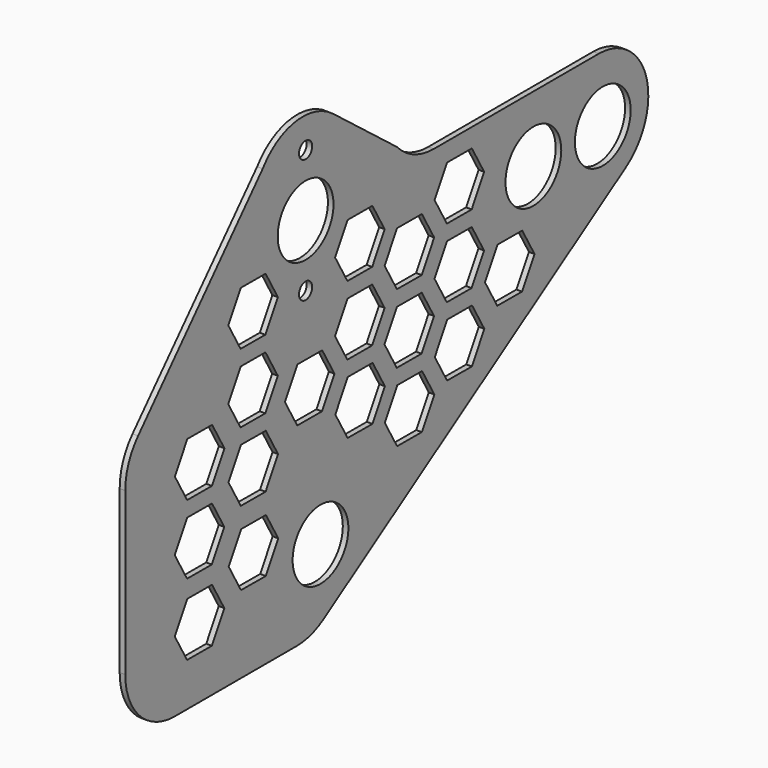
from build123d import *

# Parameters (mm, degrees)
F0_R     = 14.2875
F0_R_2   = 3.373438
F1_DEPTH = 2.286


with BuildPart() as f1:
    # F0 (on Right) → F1 (new body)
    with BuildSketch(Plane.YZ):
        with BuildLine():
            ThreePointArc((-41.678018, -70.096295), (-34.493562, -69.059045), (-27.895884, -66.032011))
            Line((-27.895884, -66.032011), (126.930524, 33.980489))
            ThreePointArc((126.930524, 33.980489), (137.51114, 62.500661), (113.14839, 80.716205))
            Line((113.14839, 80.716205), (28.638652, 80.716205))
            ThreePointArc((28.638652, 80.716205), (18.351058, 82.892825), (9.826628, 89.049637))
            Line((9.826628, 89.049637), (-22.94285, 114.364516))
            ThreePointArc((-22.94285, 114.364516), (-42.076779, 119.406552), (-59.022421, 109.190164))
            Line((-59.022421, 109.190164), (-122.859185, 38.763636))
            ThreePointArc((-122.859185, 38.763636), (-127.737616, 30.847053), (-129.439808, 21.705176))
            Line((-129.439808, 21.705176), (-129.439808, -44.696295))
            ThreePointArc((-129.439808, -44.696295), (-122.000321, -62.656807), (-104.039808, -70.096295))
            Line((-104.039808, -70.096295), (-41.678018, -70.096295))
        make_face()
        Polygon((-85.084374, -52.344054), (-97.784249, -52.287691), (-104.085375, -41.261095), (-97.686626, -30.290862), (-84.986751, -30.347225), (-78.685625, -41.373821), align=None, mode=Mode.SUBTRACT)
        Polygon((-57.446231, -38.402657), (-70.146106, -38.346295), (-76.447232, -27.319699), (-70.048483, -16.349466), (-57.348608, -16.405829), (-51.047482, -27.432424), align=None, mode=Mode.SUBTRACT)
        with Locations((-29.411834, -38.346295)):
            Circle(F0_R, mode=Mode.SUBTRACT)
        Polygon((-85.096416, -23.010039), (-97.796291, -22.953676), (-104.097417, -11.927081), (-97.698668, -0.956848), (-84.998793, -1.01321), (-78.697667, -12.039806), align=None, mode=Mode.SUBTRACT)
        Polygon((-57.543857, -7.94989), (-70.243732, -7.893527), (-76.544858, 3.133069), (-70.146109, 14.103302), (-57.446234, 14.046939), (-51.145108, 3.020343), align=None, mode=Mode.SUBTRACT)
        Polygon((-85.038808, 5.336948), (-97.738683, 5.393311), (-104.039808, 16.419906), (-97.641059, 27.390139), (-84.941185, 27.333776), (-78.640059, 16.307181), align=None, mode=Mode.SUBTRACT)
        Polygon((-28.643053, 9.313772), (-41.342928, 9.370135), (-47.644054, 20.396731), (-41.245305, 31.366964), (-28.54543, 31.310601), (-22.244304, 20.284005), align=None, mode=Mode.SUBTRACT)
        Polygon((-2.817801, -5.711303), (-15.517676, -5.65494), (-21.818802, 5.371655), (-15.420052, 16.341888), (-2.720178, 16.285526), (3.580948, 5.25893), align=None, mode=Mode.SUBTRACT)
        Polygon((22.526503, -18.976484), (9.826628, -18.920122), (3.525502, -7.893526), (9.924251, 3.076707), (22.624126, 3.020344), (28.925252, -8.006251), align=None, mode=Mode.SUBTRACT)
        Polygon((22.371272, 9.370136), (9.671397, 9.426499), (3.370271, 20.453094), (9.76902, 31.423327), (22.468895, 31.366965), (28.770021, 20.340369), align=None, mode=Mode.SUBTRACT)
        Polygon((48.145067, -5.711305), (35.445192, -5.654942), (29.144066, 5.371654), (35.542815, 16.341887), (48.24269, 16.285524), (54.543816, 5.258928), align=None, mode=Mode.SUBTRACT)
        Polygon((73.847689, 10.850061), (61.147815, 10.906608), (54.84685, 21.933296), (61.245758, 32.903436), (73.945632, 32.846888), (80.246598, 21.820201), align=None, mode=Mode.SUBTRACT)
        Polygon((-57.699089, 20.396731), (-70.398963, 20.453093), (-76.700089, 31.479689), (-70.30134, 42.449922), (-57.601465, 42.393559), (-51.30034, 31.366964), align=None, mode=Mode.SUBTRACT)
        Polygon((-57.641481, 48.743717), (-70.341355, 48.80008), (-76.642481, 59.826676), (-70.243732, 70.796909), (-57.543857, 70.740546), (-51.242732, 59.71395), align=None, mode=Mode.SUBTRACT)
        Polygon((-2.973032, 22.635317), (-15.672907, 22.69168), (-21.974033, 33.718276), (-15.575284, 44.688509), (-2.875409, 44.632146), (3.425717, 33.60555), align=None, mode=Mode.SUBTRACT)
        with Locations((-37.046294, 56.249909)):
            Circle(F0_R_2, mode=Mode.SUBTRACT)
        Polygon((-2.915424, 50.982304), (-15.615299, 51.038667), (-21.916425, 62.065262), (-15.517676, 73.035495), (-2.817801, 72.979133), (3.483325, 61.952537), align=None, mode=Mode.SUBTRACT)
        with Locations((-37.046294, 81.649909)):
            Circle(F0_R, mode=Mode.SUBTRACT)
        with Locations((-37.046294, 107.049909)):
            Circle(F0_R_2, mode=Mode.SUBTRACT)
        Polygon((47.989836, 22.635315), (35.289961, 22.691678), (28.988835, 33.718274), (35.387584, 44.688507), (48.087459, 44.632144), (54.388585, 33.605548), align=None, mode=Mode.SUBTRACT)
        Polygon((22.42888, 37.717123), (9.729005, 37.773485), (3.427879, 48.800081), (9.826628, 59.770314), (22.526503, 59.713951), (28.827629, 48.687356), align=None, mode=Mode.SUBTRACT)
        Polygon((48.047444, 50.982302), (35.347569, 51.038665), (29.046443, 62.065261), (35.445192, 73.035494), (48.145067, 72.979131), (54.446193, 61.952535), align=None, mode=Mode.SUBTRACT)
        with Locations((79.656299, 53.728705)):
            Circle(F0_R, mode=Mode.SUBTRACT)
        with Locations((115.216299, 53.728705)):
            Circle(F0_R, mode=Mode.SUBTRACT)
    extrude(amount=F1_DEPTH)


solid = f1.part
